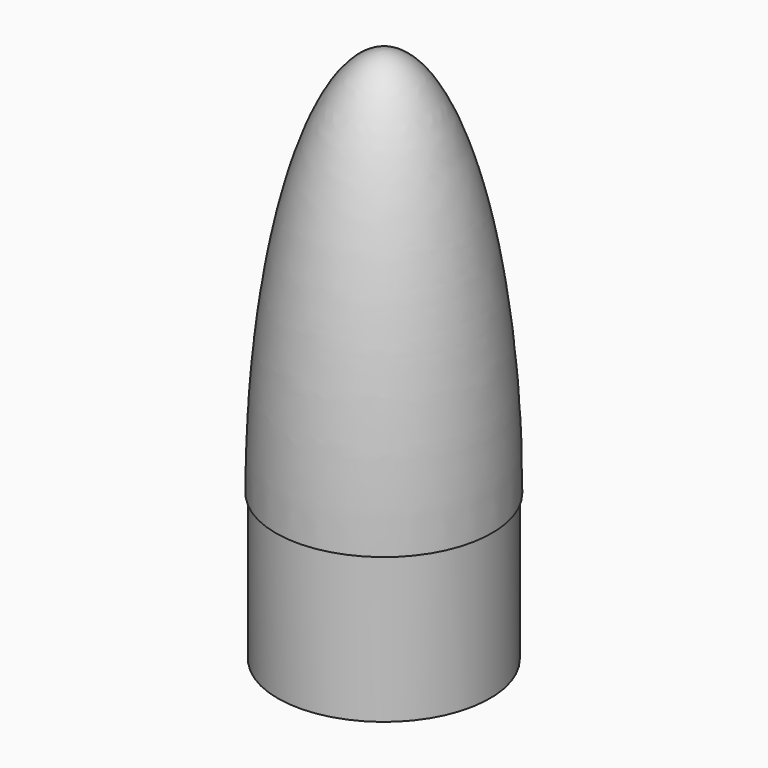
from build123d import *

# Parameters (mm, degrees)
F2_W = 1.524
F2_H = 38.1


with BuildPart() as f1:
    # F0 (on Front) → F1 (revolve)
    with BuildSketch(Plane.XZ):
        with BuildLine():
            Line((0, 99.695), (0, 101.6))
            add(Edge.make_bspline(
                [(0, 101.6), (-28.194, 101.6), (-28.194, 0)],
                knots=[0, 0, 0, 1.5707963268, 1.5707963268, 1.5707963268], degree=2, weights=[1, 0.7071067812, 1]))
            Line((-28.194, 0), (-26.162, 0))
            add(Edge.make_bspline(
                [(0, 99.695), (-26.162, 99.695), (-26.162, 0)],
                knots=[0, 0, 0, 1.5707963268, 1.5707963268, 1.5707963268], degree=2, weights=[1, 0.7071067812, 1]))
        make_face()
    revolve(axis=Axis((0, 0, 50.8), (0, 0, 1)))

    # F2 (on Front) → F3 (revolve)
    with BuildSketch(Plane.XZ):
        with Locations((-26.924, -19.05)):
            Rectangle(F2_W, F2_H)
    revolve(axis=Axis((0, 0, -19.05), (0, 0, -1)))


solid = f1.part
